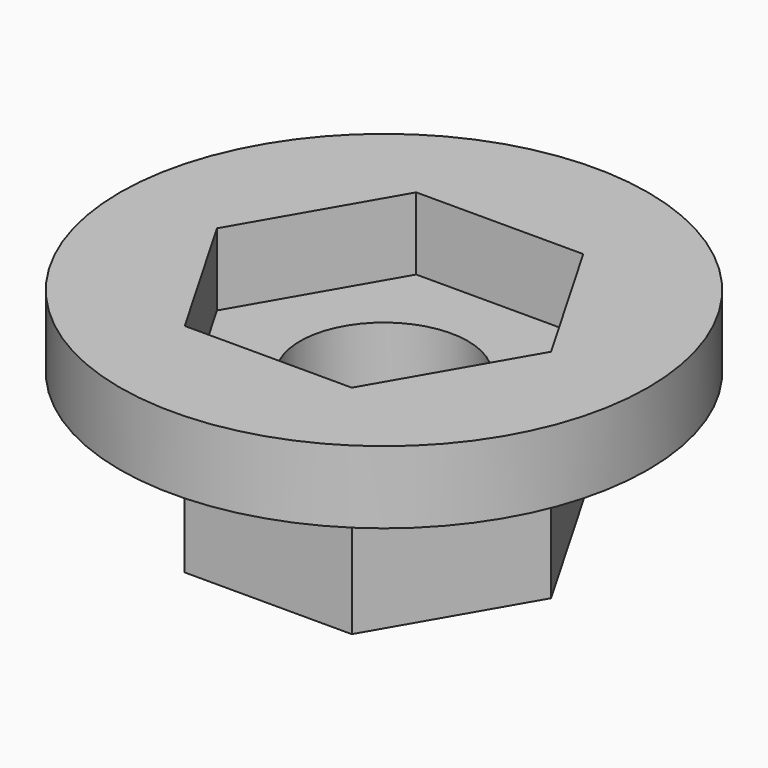
from build123d import *

# Parameters (mm, degrees)
F1_DEPTH = 50
F2_R     = 29.0419014252
F3_DEPTH = 50
F4_R     = 91.2820808401
F5_DEPTH = 25


with BuildPart() as f1:
    # F0 (on Top) → F1 (new body)
    with BuildSketch(Plane.XY):
        Polygon((28.8675134595, 50), (-28.8675134595, 50), (-57.735026919, 0), (-28.8675134595, -50), (28.8675134595, -50), (57.735026919, 0), align=None)
    extrude(amount=F1_DEPTH)

    # F2 (on face) → F3 (cut, through all)
    with BuildSketch(Plane.XY.offset(50)):
        Circle(F2_R)
    extrude(amount=-F3_DEPTH, mode=Mode.SUBTRACT)


with BuildPart() as f5:
    # F4 (on face) → F5 (new body)
    with BuildSketch(Plane.XY.offset(50)):
        Circle(F4_R)
        Polygon((28.8675134595, 50), (57.735026919, 0), (28.8675134595, -50), (-28.8675134595, -50), (-57.735026919, 0), (-28.8675134595, 50), align=None, mode=Mode.SUBTRACT)
    extrude(amount=F5_DEPTH)


solid = Compound([f1.part, f5.part])
